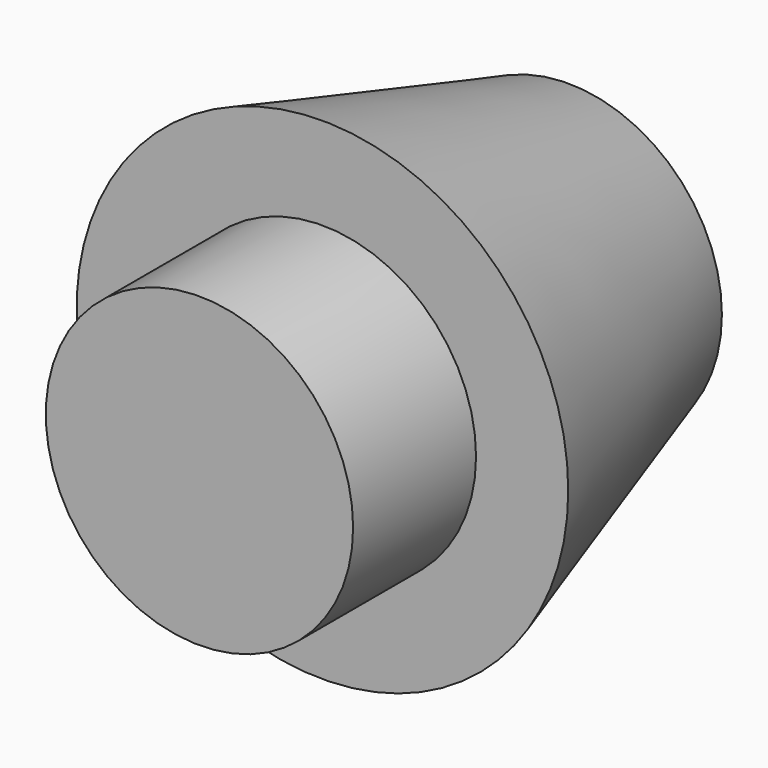
from build123d import *


with BuildPart() as f1:
    # F0 (on Top) → F1 (revolve)
    with BuildSketch(Plane.XY):
        Polygon((16, -21.189935), (10, -1.189935), (0, -1.189935), (0, -9.993782), (3, -21.189935), (10, -21.189935), align=None)
    revolve(axis=Axis((0, -5.591858, 0), (0, 1, 0)))


with BuildPart() as f2:
    # F0 (on Top) → F2 (revolve)
    with BuildSketch(Plane.XY):
        Polygon((16, -21.189935), (10, -1.189935), (0, -1.189935), (0, -9.993782), (3, -21.189935), (10, -21.189935), align=None)
        Polygon((10, -31.189935), (10, -21.189935), (3, -21.189935), (0, -9.993782), (0, -31.189935), align=None)
    revolve(axis=Axis((0, -5.591858, 0), (0, 1, 0)))


solid = Compound([f1.part, f2.part])
